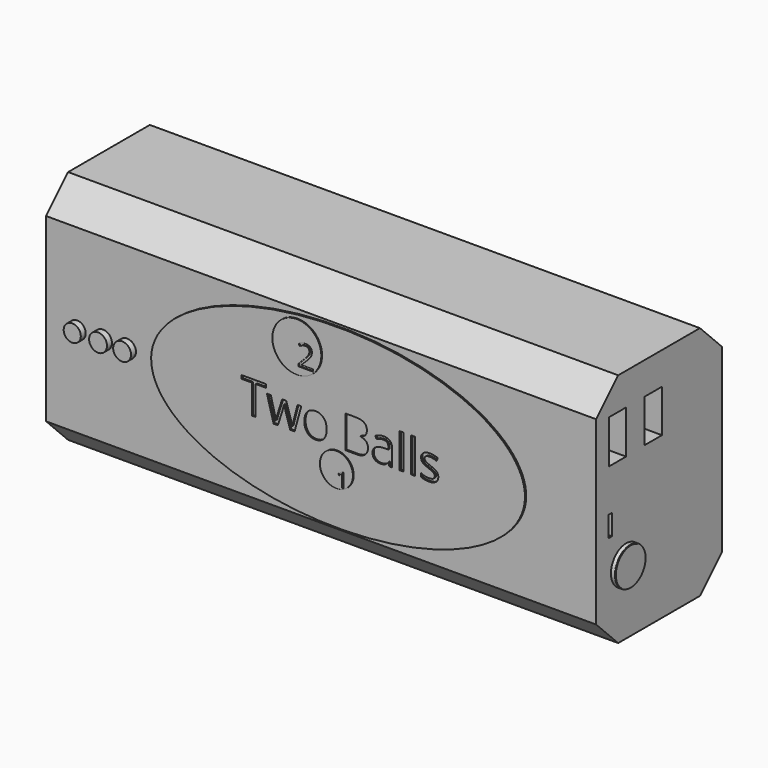
from build123d import *

# Parameters (mm, degrees)
F0_W      = 127
F0_H      = 76.2
F1_DEPTH  = 50.8
F2_DEPTH  = 25.4
F3_DEPTH  = 25.4
F4_W      = 7
F4_H      = 14
F6_DEPTH  = 16.4
F7_W      = 7
F7_H      = 13.8
F8_DEPTH  = 16.4
F9_R      = 6.1255059688
F9_R_2    = 6.0124785934
F10_DEPTH = 1.3
F11_DEPTH = 1.5
F12_W     = 1.5
F12_H     = 6.7
F13_DEPTH = 6.7
F14_R     = 2.7642825255
F14_R_2   = 2.895991434
F14_R_3   = 2.8816503063
F15_DEPTH = 2
F16_W     = 1.1908488734
F16_H     = 11.1581851082
F17_DEPTH = 0.5
F18_SIZE  = 8.89
F19_R     = 7.9148015938
F19_R_2   = 5.3505300336
F20_DEPTH = 0.3


with BuildPart() as f1:
    # F0 (on Front) → F1 (new body)
    with BuildSketch(Plane.XZ):
        Rectangle(F0_W, F0_H)
    extrude(amount=F1_DEPTH)

    # F2 (add): a face of the model
    f2_faces = [f1.faces().sort_by_distance(p)[0] for p in [
        (63.5, -25.4, 0),
    ]]
    extrude(f2_faces, amount=F2_DEPTH)

    # F3 (add): a face of the model
    f3_faces = [f1.faces().sort_by_distance(p)[0] for p in [
        (88.9, -25.4, 0),
    ]]
    extrude(f3_faces, amount=F3_DEPTH)

    # F4 (on face) → F6 (cut)
    with BuildSketch(Plane.YZ.offset(114.3)):
        with Locations((-42.22, 20.6707741767)):
            Rectangle(F4_W, F4_H)
    extrude(amount=-F6_DEPTH, mode=Mode.SUBTRACT)

    # F7 (on face) → F8 (cut)
    with BuildSketch(Plane.YZ.offset(114.3)):
        with Locations((-27.7269255519, 20.7707741767)):
            Rectangle(F7_W, F7_H)
    extrude(amount=-F8_DEPTH, mode=Mode.SUBTRACT)

    # F9 (on face) → F10 (join)
    with BuildSketch(Plane.YZ.offset(114.3)):
        with Locations((-38.72, -17.1244423836)):
            Circle(F9_R)
        with Locations((-38.72, -17.1244423836)):
            Circle(F9_R_2, mode=Mode.SUBTRACT)
    extrude(amount=F10_DEPTH)

    # F11 (add): a face of the model
    f11_faces = [f1.faces().sort_by_distance(p)[0] for p in [
        (114.3, -38.72, -17.1244423836),
    ]]
    extrude(f11_faces, amount=F11_DEPTH)

    # F12 (on face) → F13 (cut)
    with BuildSketch(Plane.YZ.offset(114.3)):
        with Locations((-45.155020088, -3.35)):
            Rectangle(F12_W, F12_H)
    extrude(amount=-F13_DEPTH, mode=Mode.SUBTRACT)

    # F14 (on face) → F15 (join)
    with BuildSketch(Plane.XZ.offset(50.8)):
        with Locations((-53.4465648234, 0)):
            Circle(F14_R)
        with Locations((-45.1002009213, 0)):
            Circle(F14_R_2)
        with Locations((-37.3294427991, 0)):
            Circle(F14_R_3)
    extrude(amount=F15_DEPTH)

    # F16 (on face) → F17 (join)
    with BuildSketch(Plane.XZ.offset(50.8)):
        with BuildLine():
            add(Edge.make_bspline(
                [(91.678313911, 0), (91.678313911, 49.5220849143), (1.0680742562, 24.7610424572), (-89.5421653986, 0), (1.0680742562, -24.7610424572), (91.678313911, -49.5220849143), (91.678313911, 0)],
                knots=[0, 0, 0, 2.0943951024, 2.0943951024, 4.1887902048, 4.1887902048, 6.2831853072, 6.2831853072, 6.2831853072], degree=2, weights=[1, 0.5, 1, 0.5, 1, 0.5, 1]))
        make_face()
        Polygon((4.6670262205, 3.7646041432), (4.6670262205, -5.6359889862), (3.4486432691, -5.6359889862), (3.4486432691, 3.7646041432), (0.128492364, 3.7646041432), (0.128492364, 4.8476112111), (7.9871771256, 4.8476112111), (7.9871771256, 3.7646041432), align=None, mode=Mode.SUBTRACT)
        with BuildLine():
            Line((17.217976774, -5.6359889862), (15.8045607702, -5.6359889862))
            Line((15.8045607702, -5.6359889862), (14.3636106884, -1.0263254283))
            add(Edge.make_bspline(
                [(14.3636106884, -1.0263254283), (14.2259402984, -0.6018417258), (13.8542302454, 0.8964710185)],
                knots=[0, 0, 0, 1, 1, 1], degree=2))
            Line((13.8542302454, 0.8964710185), (13.7968675829, 0.8964710185))
            add(Edge.make_bspline(
                [(13.7968675829, 0.8964710185), (13.5100542705, -0.3586240368), (13.2943706595, -1.0400924673)],
                knots=[0, 0, 0, 1, 1, 1], degree=2))
            Line((13.2943706595, -1.0400924673), (11.8098249542, -5.6359889862))
            Line((11.8098249542, -5.6359889862), (10.4331210543, -5.6359889862))
            Line((10.4331210543, -5.6359889862), (8.2900519836, 2.2226957754))
            Line((8.2900519836, 2.2226957754), (9.5382635194, 2.2226957754))
            add(Edge.make_bspline(
                [(9.5382635194, 2.2226957754), (10.2977451708, -0.7395121158), (10.6958420485, -2.2883040031)],
                knots=[0, 0, 0, 1, 1, 1], degree=2))
            add(Edge.make_bspline(
                [(10.6958420485, -2.2883040031), (11.0939389262, -3.8370958904), (11.1513015887, -4.3740104114)],
                knots=[0, 0, 0, 1, 1, 1], degree=2))
            Line((11.1513015887, -4.3740104114), (11.2086642512, -4.3740104114))
            add(Edge.make_bspline(
                [(11.2086642512, -4.3740104114), (11.2866774722, -3.9655882544), (11.4622072194, -3.316242915)],
                knots=[0, 0, 0, 1, 1, 1], degree=2))
            add(Edge.make_bspline(
                [(11.4622072194, -3.316242915), (11.6377369667, -2.6668975756), (11.7685238372, -2.2883040031)],
                knots=[0, 0, 0, 1, 1, 1], degree=2))
            Line((11.7685238372, -2.2883040031), (13.209473919, 2.2226957754))
            Line((13.209473919, 2.2226957754), (14.4989865719, 2.2226957754))
            Line((14.4989865719, 2.2226957754), (15.9055190562, -2.2883040031))
            add(Edge.make_bspline(
                [(15.9055190562, -2.2883040031), (16.3070576936, -3.5204539935), (16.4493170966, -4.3602433724)],
                knots=[0, 0, 0, 1, 1, 1], degree=2))
            Line((16.4493170966, -4.3602433724), (16.5066797591, -4.3602433724))
            add(Edge.make_bspline(
                [(16.5066797591, -4.3602433724), (16.5365083436, -4.1009641379), (16.6615589479, -3.5629023637)],
                knots=[0, 0, 0, 1, 1, 1], degree=2))
            add(Edge.make_bspline(
                [(16.6615589479, -3.5629023637), (16.7866095521, -3.0248405895), (18.1564299324, 2.2226957754)],
                knots=[0, 0, 0, 1, 1, 1], degree=2))
            Line((18.1564299324, 2.2226957754), (19.3885799228, 2.2226957754))
            Line((19.3885799228, 2.2226957754), (17.217976774, -5.6359889862))
        make_face(mode=Mode.SUBTRACT)
        with BuildLine():
            add(Edge.make_bspline(
                [(26.6197171567, 1.2693283247), (27.5914406594, 0.1714069646), (27.5914406594, -1.6986158327)],
                knots=[0, 0, 0, 1, 1, 1], degree=2))
            add(Edge.make_bspline(
                [(27.5914406594, -1.6986158327), (27.5914406594, -3.6214122795), (26.6243061697, -4.7009775876)],
                knots=[0, 0, 0, 1, 1, 1], degree=2))
            add(Edge.make_bspline(
                [(26.6243061697, -4.7009775876), (25.6571716801, -5.7805428957), (23.9500588443, -5.7805428957)],
                knots=[0, 0, 0, 1, 1, 1], degree=2))
            add(Edge.make_bspline(
                [(23.9500588443, -5.7805428957), (22.8945858544, -5.7805428957), (22.0777415405, -5.2849294918)],
                knots=[0, 0, 0, 1, 1, 1], degree=2))
            add(Edge.make_bspline(
                [(22.0777415405, -5.2849294918), (21.2608972266, -4.7893160878), (20.8157629656, -3.8646299684)],
                knots=[0, 0, 0, 1, 1, 1], degree=2))
            add(Edge.make_bspline(
                [(20.8157629656, -3.8646299684), (20.3706287047, -2.939943849), (20.3706287047, -1.6986158327)],
                knots=[0, 0, 0, 1, 1, 1], degree=2))
            add(Edge.make_bspline(
                [(20.3706287047, -1.6986158327), (20.3706287047, 0.2218861076), (21.3320269281, 1.2945678962)],
                knots=[0, 0, 0, 1, 1, 1], degree=2))
            add(Edge.make_bspline(
                [(21.3320269281, 1.2945678962), (22.2934251515, 2.3672496849), (24.0005379873, 2.3672496849)],
                knots=[0, 0, 0, 1, 1, 1], degree=2))
            add(Edge.make_bspline(
                [(24.0005379873, 2.3672496849), (25.6479936541, 2.3672496849), (26.6197171567, 1.2693283247)],
                knots=[0, 0, 0, 1, 1, 1], degree=2))
        make_face(mode=Mode.SUBTRACT)
        with BuildLine():
            Line((33.6741773902, -5.6359889862), (33.6741773902, 4.8476112111))
            Line((33.6741773902, 4.8476112111), (36.6363852813, 4.8476112111))
            add(Edge.make_bspline(
                [(36.6363852813, 4.8476112111), (38.7220916896, 4.8476112111), (39.6548085817, 4.2235054431)],
                knots=[0, 0, 0, 1, 1, 1], degree=2))
            add(Edge.make_bspline(
                [(39.6548085817, 4.2235054431), (40.5875254739, 3.5993996752), (40.5875254739, 2.2525243599)],
                knots=[0, 0, 0, 1, 1, 1], degree=2))
            add(Edge.make_bspline(
                [(40.5875254739, 2.2525243599), (40.5875254739, 1.3186602145), (40.0678197517, 0.7129104985)],
                knots=[0, 0, 0, 1, 1, 1], degree=2))
            add(Edge.make_bspline(
                [(40.0678197517, 0.7129104985), (39.5481140295, 0.1071607826), (38.5500037021, -0.0718107244)],
                knots=[0, 0, 0, 1, 1, 1], degree=2))
            Line((38.5500037021, -0.0718107244), (38.5500037021, -0.1429404259))
            add(Edge.make_bspline(
                [(38.5500037021, -0.1429404259), (40.9385849684, -0.5513625828), (40.9385849684, -2.6531305366)],
                knots=[0, 0, 0, 1, 1, 1], degree=2))
            add(Edge.make_bspline(
                [(40.9385849684, -2.6531305366), (40.9385849684, -4.0573685144), (39.9886592775, -4.8466787503)],
                knots=[0, 0, 0, 1, 1, 1], degree=2))
            add(Edge.make_bspline(
                [(39.9886592775, -4.8466787503), (39.0387335866, -5.6359889862), (37.3316207508, -5.6359889862)],
                knots=[0, 0, 0, 1, 1, 1], degree=2))
            Line((37.3316207508, -5.6359889862), (33.6741773902, -5.6359889862))
        make_face(mode=Mode.SUBTRACT)
        with BuildLine():
            Line((48.7261400285, -5.6359889862), (47.8427550261, -5.6359889862))
            Line((47.8427550261, -5.6359889862), (47.6064208566, -4.5162698144))
            Line((47.6064208566, -4.5162698144), (47.5490581941, -4.5162698144))
            add(Edge.make_bspline(
                [(47.5490581941, -4.5162698144), (46.9616645302, -5.2551009073), (46.377712626, -5.5178219015)],
                knots=[0, 0, 0, 1, 1, 1], degree=2))
            add(Edge.make_bspline(
                [(46.377712626, -5.5178219015), (45.7937607218, -5.7805428957), (44.9172592389, -5.7805428957)],
                knots=[0, 0, 0, 1, 1, 1], degree=2))
            add(Edge.make_bspline(
                [(44.9172592389, -5.7805428957), (43.7493554305, -5.7805428957), (43.0862430521, -5.1770876863)],
                knots=[0, 0, 0, 1, 1, 1], degree=2))
            add(Edge.make_bspline(
                [(43.0862430521, -5.1770876863), (42.4231306737, -4.5736324769), (42.4231306737, -3.463091331)],
                knots=[0, 0, 0, 1, 1, 1], degree=2))
            add(Edge.make_bspline(
                [(42.4231306737, -3.463091331), (42.4231306737, -1.0836880907), (46.2297169568, -0.9689627658)],
                knots=[0, 0, 0, 1, 1, 1], degree=2))
            Line((46.2297169568, -0.9689627658), (47.5628252331, -0.9253671423))
            Line((47.5628252331, -0.9253671423), (47.5628252331, -0.4366372578))
            add(Edge.make_bspline(
                [(47.5628252331, -0.4366372578), (47.5628252331, 0.4880488616), (47.1658756086, 0.9285941095)],
                knots=[0, 0, 0, 1, 1, 1], degree=2))
            add(Edge.make_bspline(
                [(47.1658756086, 0.9285941095), (46.7689259842, 1.3691393575), (45.8924245013, 1.3691393575)],
                knots=[0, 0, 0, 1, 1, 1], degree=2))
            add(Edge.make_bspline(
                [(45.8924245013, 1.3691393575), (44.9103757194, 1.3691393575), (43.6713422095, 0.7679786545)],
                knots=[0, 0, 0, 1, 1, 1], degree=2))
            Line((43.6713422095, 0.7679786545), (43.3042211696, 1.6788977349))
            add(Edge.make_bspline(
                [(43.3042211696, 1.6788977349), (43.884731314, 1.9932451254), (44.5765250237, 2.1722166324)],
                knots=[0, 0, 0, 1, 1, 1], degree=2))
            add(Edge.make_bspline(
                [(44.5765250237, 2.1722166324), (45.2683187334, 2.3511881394), (45.9658487093, 2.3511881394)],
                knots=[0, 0, 0, 1, 1, 1], degree=2))
            add(Edge.make_bspline(
                [(45.9658487093, 2.3511881394), (47.3700866871, 2.3511881394), (48.0481133578, 1.7282296247)],
                knots=[0, 0, 0, 1, 1, 1], degree=2))
            add(Edge.make_bspline(
                [(48.0481133578, 1.7282296247), (48.7261400285, 1.10527111), (48.7261400285, -0.2714327898)],
                knots=[0, 0, 0, 1, 1, 1], degree=2))
            Line((48.7261400285, -0.2714327898), (48.7261400285, -5.6359889862))
        make_face(mode=Mode.SUBTRACT)
        with Locations((51.7720974069, -0.0568964321)):
            Rectangle(F16_W, F16_H, mode=Mode.SUBTRACT)
        with Locations((55.48690343, -0.0568964321)):
            Rectangle(F16_W, F16_H, mode=Mode.SUBTRACT)
        with BuildLine():
            add(Edge.make_bspline(
                [(63.1838254833, -2.1942292366), (63.6748498743, -2.7104931991), (63.6748498743, -3.4929199155)],
                knots=[0, 0, 0, 1, 1, 1], degree=2))
            add(Edge.make_bspline(
                [(63.6748498743, -3.4929199155), (63.6748498743, -4.5896940224), (62.8580055604, -5.185118459)],
                knots=[0, 0, 0, 1, 1, 1], degree=2))
            add(Edge.make_bspline(
                [(62.8580055604, -5.185118459), (62.0411612465, -5.7805428957), (60.5634990606, -5.7805428957)],
                knots=[0, 0, 0, 1, 1, 1], degree=2))
            add(Edge.make_bspline(
                [(60.5634990606, -5.7805428957), (59.0009401343, -5.7805428957), (58.1267331579, -5.2849294918)],
                knots=[0, 0, 0, 1, 1, 1], degree=2))
            Line((58.1267331579, -5.2849294918), (58.1267331579, -4.1812718654))
            add(Edge.make_bspline(
                [(58.1267331579, -4.1812718654), (58.6934762633, -4.4680851779), (59.3416743495, -4.6321423926)],
                knots=[0, 0, 0, 1, 1, 1], degree=2))
            add(Edge.make_bspline(
                [(59.3416743495, -4.6321423926), (59.9898724357, -4.7961996073), (60.5933276451, -4.7961996073)],
                knots=[0, 0, 0, 1, 1, 1], degree=2))
            add(Edge.make_bspline(
                [(60.5933276451, -4.7961996073), (61.524897284, -4.7961996073), (62.0262469542, -4.4990610156)],
                knots=[0, 0, 0, 1, 1, 1], degree=2))
            add(Edge.make_bspline(
                [(62.0262469542, -4.4990610156), (62.5275966244, -4.2019224239), (62.5275966244, -3.591583695)],
                knots=[0, 0, 0, 1, 1, 1], degree=2))
            add(Edge.make_bspline(
                [(62.5275966244, -3.591583695), (62.5275966244, -3.132682395), (62.1306469999, -2.8068624721)],
                knots=[0, 0, 0, 1, 1, 1], degree=2))
            add(Edge.make_bspline(
                [(62.1306469999, -2.8068624721), (61.7336973755, -2.4810425491), (60.5772660996, -2.0359082881)],
                knots=[0, 0, 0, 1, 1, 1], degree=2))
            add(Edge.make_bspline(
                [(60.5772660996, -2.0359082881), (59.4804919927, -1.6274861312), (59.0181489331, -1.3223167667)],
                knots=[0, 0, 0, 1, 1, 1], degree=2))
            add(Edge.make_bspline(
                [(59.0181489331, -1.3223167667), (58.5558058734, -1.0171474023), (58.3297969831, -0.6305230571)],
                knots=[0, 0, 0, 1, 1, 1], degree=2))
            add(Edge.make_bspline(
                [(58.3297969831, -0.6305230571), (58.1037880929, -0.2438987118), (58.1037880929, 0.2930158091)],
                knots=[0, 0, 0, 1, 1, 1], degree=2))
            add(Edge.make_bspline(
                [(58.1037880929, 0.2930158091), (58.1037880929, 1.2544140325), (58.8862148093, 1.8108318587)],
                knots=[0, 0, 0, 1, 1, 1], degree=2))
            add(Edge.make_bspline(
                [(58.8862148093, 1.8108318587), (59.6686415257, 2.3672496849), (61.0292838801, 2.3672496849)],
                knots=[0, 0, 0, 1, 1, 1], degree=2))
            add(Edge.make_bspline(
                [(61.0292838801, 2.3672496849), (62.2981459744, 2.3672496849), (63.5119399128, 1.8509857224)],
                knots=[0, 0, 0, 1, 1, 1], degree=2))
            Line((63.5119399128, 1.8509857224), (63.0874562103, 0.8827039795))
            add(Edge.make_bspline(
                [(63.0874562103, 0.8827039795), (61.905785363, 1.3691393575), (60.9443871396, 1.3691393575)],
                knots=[0, 0, 0, 1, 1, 1], degree=2))
            add(Edge.make_bspline(
                [(60.9443871396, 1.3691393575), (60.0977142412, 1.3691393575), (59.6674942725, 1.1041238568)],
                knots=[0, 0, 0, 1, 1, 1], degree=2))
            add(Edge.make_bspline(
                [(59.6674942725, 1.1041238568), (59.2372743038, 0.839108356), (59.2372743038, 0.3733235366)],
                knots=[0, 0, 0, 1, 1, 1], degree=2))
            add(Edge.make_bspline(
                [(59.2372743038, 0.3733235366), (59.2372743038, 0.0566816396), (59.399037012, -0.1647382376)],
                knots=[0, 0, 0, 1, 1, 1], degree=2))
            add(Edge.make_bspline(
                [(59.399037012, -0.1647382376), (59.5607997202, -0.3861581148), (59.9187427342, -0.5869274336)],
                knots=[0, 0, 0, 1, 1, 1], degree=2))
            add(Edge.make_bspline(
                [(59.9187427342, -0.5869274336), (60.2766857482, -0.7876967523), (61.295446634, -1.1685848312)],
                knots=[0, 0, 0, 1, 1, 1], degree=2))
            add(Edge.make_bspline(
                [(61.295446634, -1.1685848312), (62.6928010924, -1.6779652742), (63.1838254833, -2.1942292366)],
                knots=[0, 0, 0, 1, 1, 1], degree=2))
        make_face(mode=Mode.SUBTRACT)
    extrude(amount=F17_DEPTH)

    # F18
    f18_edges = [f1.edges().sort_by_distance(p)[0] for p in [
        (25.4, -50.8, 38.1),
        (25.4, 0, 38.1),
        (25.4, -50.8, -38.1),
        (25.4, 0, -38.1),
    ]]
    chamfer(f18_edges, length=F18_SIZE)

    # F19 (on face) → F20 (join)
    with BuildSketch(Plane.XZ.offset(51.3)):
        with Locations((18.1921864258, 18.8771318644)):
            Circle(F19_R)
        with BuildLine():
            Line((23.3544736887, 14.2494080126), (23.3544736887, 13.5005961388))
            Line((23.3544736887, 13.5005961388), (18.6794590173, 13.5005961388))
            Line((18.6794590173, 13.5005961388), (18.6794590173, 14.1964774436))
            Line((18.6794590173, 14.1964774436), (20.5522670925, 16.0786262074))
            add(Edge.make_bspline(
                [(20.5522670925, 16.0786262074), (21.4084968858, 16.9457534707), (21.6809336382, 17.3154890633)],
                knots=[0, 0, 0, 1, 1, 1], degree=2))
            add(Edge.make_bspline(
                [(21.6809336382, 17.3154890633), (21.9533703906, 17.6852246559), (22.0895887668, 18.0355004804)],
                knots=[0, 0, 0, 1, 1, 1], degree=2))
            add(Edge.make_bspline(
                [(22.0895887668, 18.0355004804), (22.225807143, 18.3857763049), (22.225807143, 18.7889826985)],
                knots=[0, 0, 0, 1, 1, 1], degree=2))
            add(Edge.make_bspline(
                [(22.225807143, 18.7889826985), (22.225807143, 19.3587647064), (21.8802016628, 19.6919159351)],
                knots=[0, 0, 0, 1, 1, 1], degree=2))
            add(Edge.make_bspline(
                [(21.8802016628, 19.6919159351), (21.5345961826, 20.0250671637), (20.9212242943, 20.0250671637)],
                knots=[0, 0, 0, 1, 1, 1], degree=2))
            add(Edge.make_bspline(
                [(20.9212242943, 20.0250671637), (20.4790983647, 20.0250671637), (20.0821190969, 19.8787297081)],
                knots=[0, 0, 0, 1, 1, 1], degree=2))
            add(Edge.make_bspline(
                [(20.0821190969, 19.8787297081), (19.6851398291, 19.7323922526), (19.1994240191, 19.3478672363)],
                knots=[0, 0, 0, 1, 1, 1], degree=2))
            Line((19.1994240191, 19.3478672363), (18.7713091224, 19.8974110855))
            add(Edge.make_bspline(
                [(18.7713091224, 19.8974110855), (19.7536382125, 20.7147213427), (20.9118836056, 20.7147213427)],
                knots=[0, 0, 0, 1, 1, 1], degree=2))
            add(Edge.make_bspline(
                [(20.9118836056, 20.7147213427), (21.9144508545, 20.7147213427), (22.4834544717, 20.2017618574)],
                knots=[0, 0, 0, 1, 1, 1], degree=2))
            add(Edge.make_bspline(
                [(22.4834544717, 20.2017618574), (23.0524580889, 19.6888023722), (23.0524580889, 18.8232318902)],
                knots=[0, 0, 0, 1, 1, 1], degree=2))
            add(Edge.make_bspline(
                [(23.0524580889, 18.8232318902), (23.0524580889, 18.1460319628), (22.6726034169, 17.4843998498)],
                knots=[0, 0, 0, 1, 1, 1], degree=2))
            add(Edge.make_bspline(
                [(22.6726034169, 17.4843998498), (22.292748745, 16.8227677368), (21.2528187415, 15.8108597993)],
                knots=[0, 0, 0, 1, 1, 1], degree=2))
            Line((21.2528187415, 15.8108597993), (19.6960372992, 14.2883275486))
            Line((19.6960372992, 14.2883275486), (19.6960372992, 14.2494080126))
            Line((19.6960372992, 14.2494080126), (23.3544736887, 14.2494080126))
        make_face(mode=Mode.SUBTRACT)
        with Locations((30.9810694307, -11.9071146473)):
            Circle(F19_R_2)
        with BuildLine():
            Line((33.2299381313, -11.9463742173), (33.2299381313, -16.5457838383))
            Line((33.2299381313, -16.5457838383), (32.7205703773, -16.5457838383))
            Line((32.7205703773, -16.5457838383), (32.7205703773, -13.2681130731))
            add(Edge.make_bspline(
                [(32.7205703773, -13.2681130731), (32.7205703773, -12.8584042275), (32.7457367683, -12.4939948857)],
                knots=[0, 0, 0, 1, 1, 1], degree=2))
            add(Edge.make_bspline(
                [(32.7457367683, -12.4939948857), (32.6803041517, -12.5604341579), (32.598261717, -12.6324100362)],
                knots=[0, 0, 0, 1, 1, 1], degree=2))
            add(Edge.make_bspline(
                [(32.598261717, -12.6324100362), (32.5162192823, -12.7043859145), (31.8498132484, -13.2459666491)],
                knots=[0, 0, 0, 1, 1, 1], degree=2))
            Line((31.8498132484, -13.2459666491), (31.5729829473, -12.8875972411))
            Line((31.5729829473, -12.8875972411), (32.7900296165, -11.9463742173))
            Line((32.7900296165, -11.9463742173), (33.2299381313, -11.9463742173))
        make_face(mode=Mode.SUBTRACT)
    extrude(amount=F20_DEPTH)


solid = f1.part
